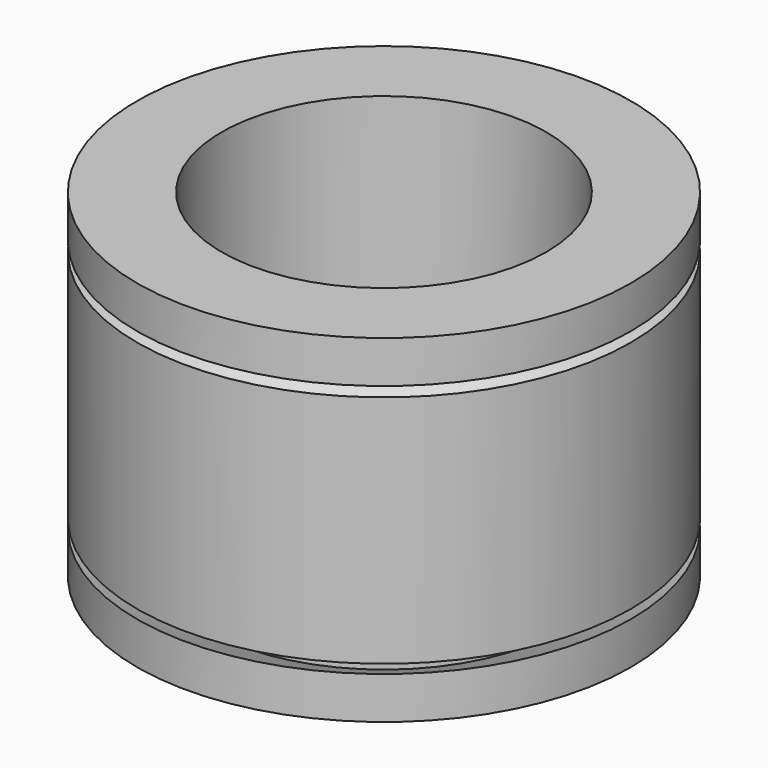
from build123d import *


with BuildPart() as f1:
    # F0 (on Front) → F1 (revolve)
    with BuildSketch(Plane.XZ):
        Polygon((5.764525, 6), (5.764525, 0), (5.764525, -6), (8.764525, -6), (8.764525, -4.5), (6.329604, -5.629876), (6.329604, 5.40261), (8.764525, 4.5), (8.764525, 6), align=None)
        Polygon((8.764525, -4.180264), (8.764525, 4.146568), (6.546565, 5.096913), (6.546565, -5.209464), align=None)
    revolve(axis=Axis((0, 0, 5.023252), (0, 0, 1)))


solid = f1.part
